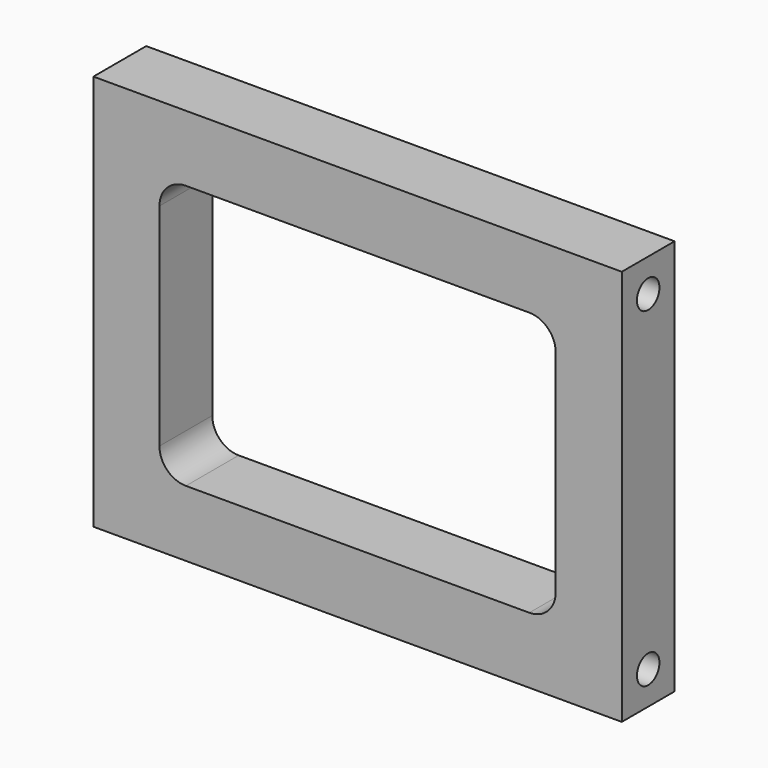
from build123d import *

# Parameters (mm, degrees)
F0_W     = 101.6
F0_H     = 76.2
F1_DEPTH = 12.7
F2_R     = 2.7051
F3_DEPTH = 15.24
F4_R     = 2.9337
F5_DEPTH = 12.7
F6_W     = 76.2
F6_H     = 50.8
F7_DEPTH = 25.4
F8_R     = 5.08


with BuildPart() as f1:
    # F0 (on Front) → F1 (new body)
    with BuildSketch(Plane.XZ):
        with Locations((50.8, 38.1)):
            Rectangle(F0_W, F0_H)
    extrude(amount=F1_DEPTH)

    # F2 (on face) → F3 (cut)
    with BuildSketch(Plane.YZ.offset(101.6)):
        with Locations((-6.35, 69.85)):
            Circle(F2_R)
        with Locations((-6.35, 6.35)):
            Circle(F2_R)
    extrude(amount=-F3_DEPTH, mode=Mode.SUBTRACT)

    # F4 (on face) → F5 (cut)
    with BuildSketch(Plane(origin=(0, 0, 0), x_dir=(0, -1, 0), z_dir=(-1, 0, 0))):
        with Locations((6.35, 69.85)):
            Circle(F4_R)
        with Locations((6.35, 6.35)):
            Circle(F4_R)
    extrude(amount=-F5_DEPTH, mode=Mode.SUBTRACT)

    # F6 (on face) → F7 (cut)
    with BuildSketch(Plane.XZ.offset(12.7)):
        with Locations((50.8, 38.1)):
            Rectangle(F6_W, F6_H)
    extrude(amount=-F7_DEPTH, mode=Mode.SUBTRACT)

    # F8
    f8_edges = [f1.edges().sort_by_distance(p)[0] for p in [
        (12.7, -6.35, 12.7),
        (88.9, -6.35, 63.5),
        (88.9, -6.35, 12.7),
        (12.7, -6.35, 63.5),
    ]]
    fillet(f8_edges, radius=F8_R)


solid = f1.part
